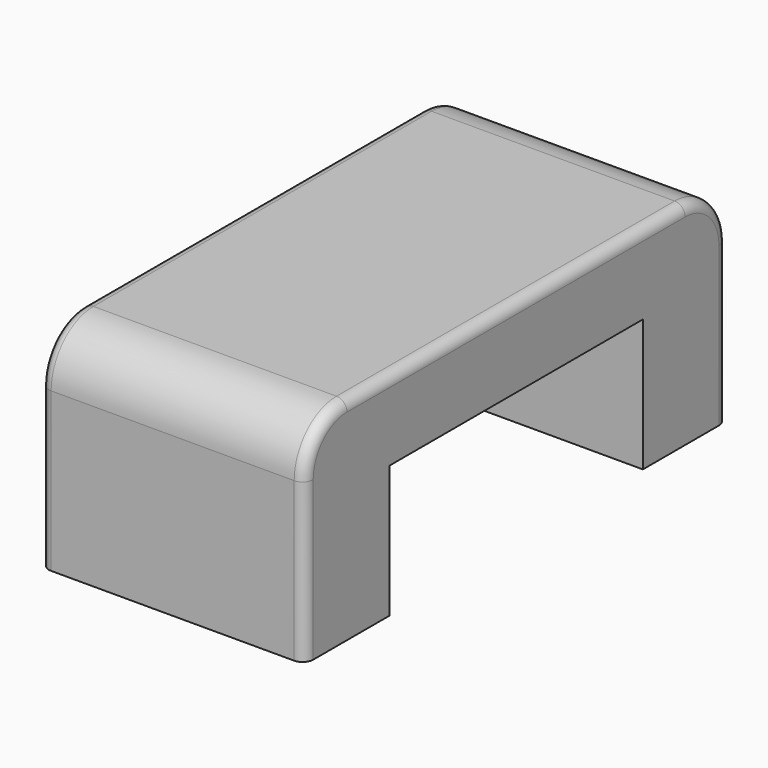
from build123d import *

# Parameters (mm, degrees)
F0_W     = 20
F0_H     = 25
F1_DEPTH = 50
F2_R     = 10
F3_R     = 2


with BuildPart() as f1:
    # F0 (on Right) → F1 (new body)
    with BuildSketch(Plane.YZ):
        Polygon((65.694234, 15), (-34.305766, 15), (-34.305766, 0), (-14.305766, 0), (45.694234, 0), (65.694234, 0), align=None)
        with Locations((-24.305766, -12.5)):
            Rectangle(F0_W, F0_H)
        with Locations((55.694234, -12.5)):
            Rectangle(F0_W, F0_H)
    extrude(amount=F1_DEPTH)

    # F2
    f2_edges = [f1.edges().sort_by_distance(p)[0] for p in [
        (25, -34.305766, 15),
        (25, 65.694234, 15),
    ]]
    fillet(f2_edges, radius=F2_R)

    # F3
    f3_edges = [f1.edges().sort_by_distance(p)[0] for p in [
        (50, 15.694234, 15),
        (0, 15.694234, 15),
    ]]
    fillet(f3_edges, radius=F3_R)


solid = f1.part
